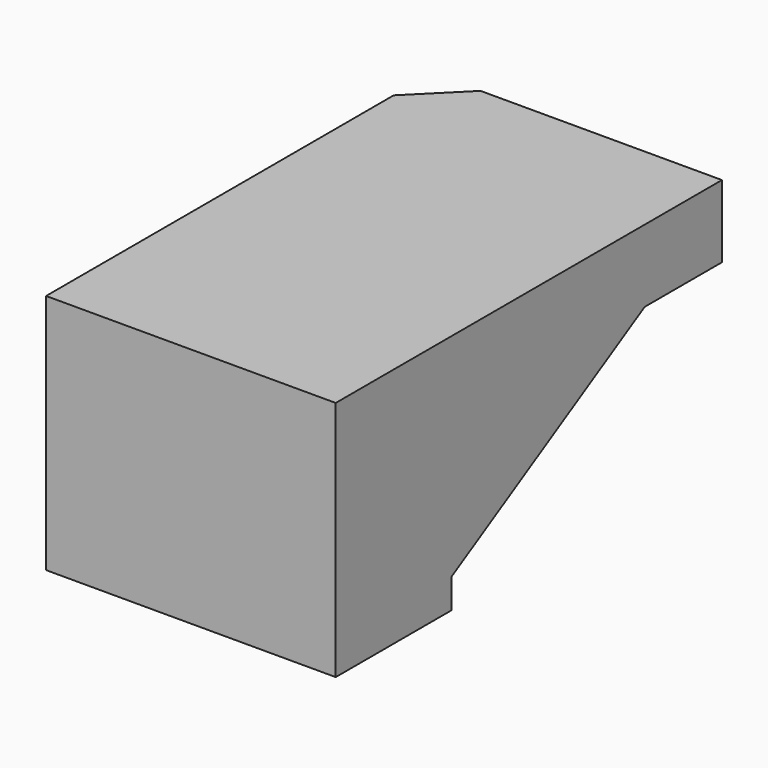
from build123d import *

# Parameters (mm, degrees)
F0_W     = 600
F0_H     = 1000
F1_DEPTH = 500
F3_DEPTH = 600.001
F4_SIZE  = 100


with BuildPart() as f1:
    # F0 (on Top) → F1 (new body)
    with BuildSketch(Plane.XY):
        Rectangle(F0_W, F0_H)
    extrude(amount=F1_DEPTH)

    # F2 (on face) → F3 (cut, through all)
    with BuildSketch(Plane.YZ.offset(300)):
        Polygon((-200, 61.324865), (-200, 0), (500, 0), (500, 350), (300, 350), align=None)
    extrude(amount=-F3_DEPTH, mode=Mode.SUBTRACT)

    # F4
    f4_edges = [f1.edges().sort_by_distance(p)[0] for p in [
        (-300, 500, 425),
    ]]
    chamfer(f4_edges, length=F4_SIZE)


solid = f1.part
